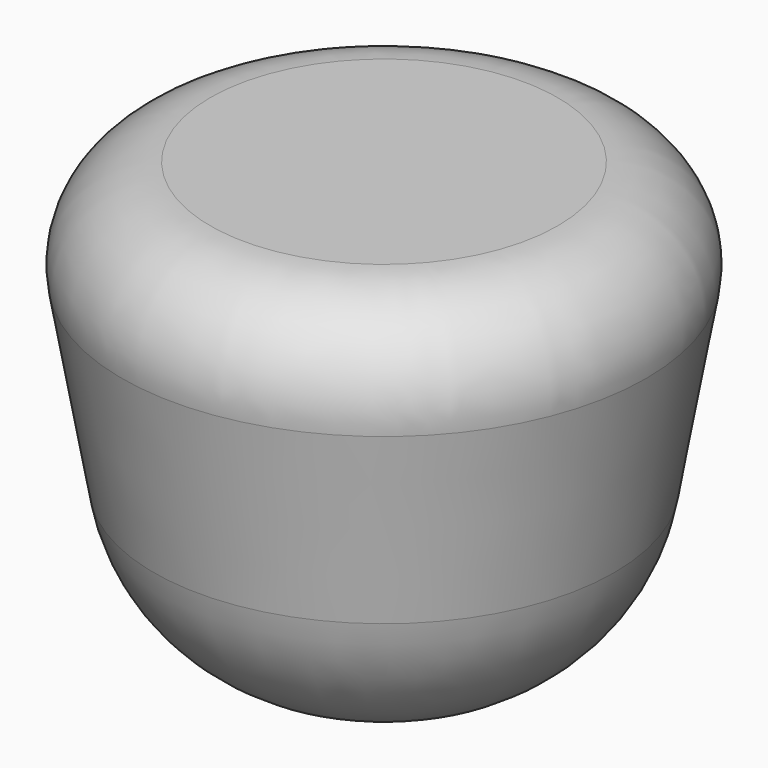
from build123d import *

# Parameters (mm, degrees)
F0_R     = 63.5
F1_DEPTH = 101.6
F1_TAPER = 10
F2_R     = 44.45
F3_R     = 20.32
F4_T     = -5.08


with BuildPart() as f1:
    # F0 (on Top) → F1 (new body)
    with BuildSketch(Plane.XY):
        Circle(F0_R)
    extrude(amount=-F1_DEPTH, taper=F1_TAPER)

    # F2
    f2_edges = [f1.edges().sort_by_distance(p)[0] for p in [
        (-45.585179, 0, -101.6),
    ]]
    fillet(f2_edges, radius=F2_R)

    # F3
    f3_edges = [f1.edges().sort_by_distance(p)[0] for p in [
        (-63.5, 0, 0),
    ]]
    fillet(f3_edges, radius=F3_R)

    # F4 (hollow: no face is removed)
    offset(amount=F4_T, mode=Mode.SUBTRACT)


solid = f1.part
